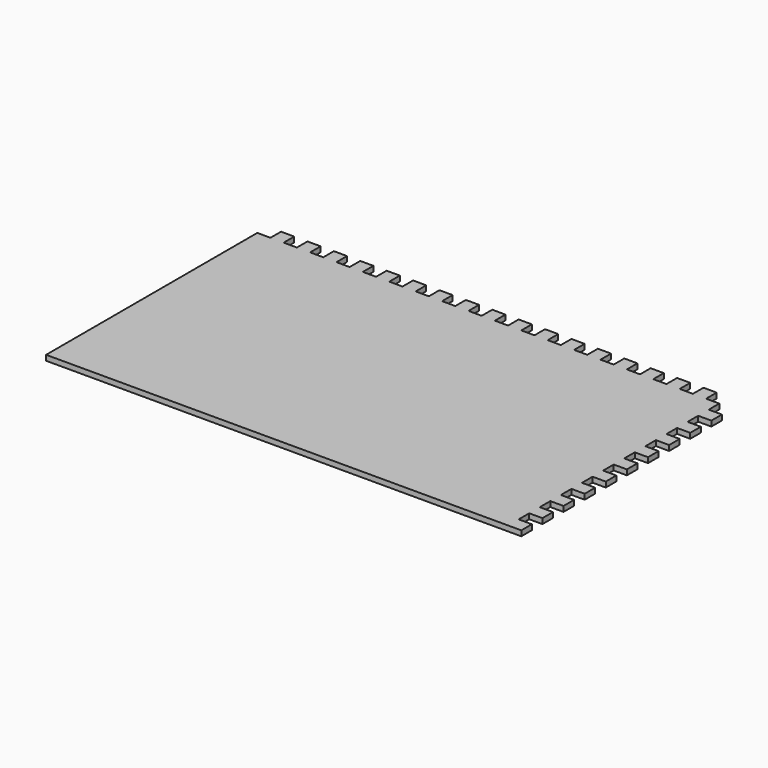
from build123d import *

# Parameters (mm, degrees)
F1_DEPTH = 2


with BuildPart() as f1:
    # F0 (on Top) → F1 (new body)
    with BuildSketch(Plane.XY):
        Polygon((-180, -3.5), (-180, -103.5), (-5, -103.5), (0, -103.5), (0, -98.5), (-5, -98.5), (-5, -93.5), (0, -93.5), (0, -88.5), (-5, -88.5), (-5, -83.5), (0, -83.5), (0, -78.5), (-5, -78.5), (-5, -73.5), (0, -73.5), (0, -68.5), (-5, -68.5), (-5, -63.5), (0, -63.5), (0, -58.5), (-5, -58.5), (-5, -53.5), (0, -53.5), (0, -48.5), (-5, -48.5), (-5, -43.5), (0, -43.5), (0, -38.5), (-5, -38.5), (-5, -33.5), (0, -33.5), (0, -28.5), (-5, -28.5), (-5, -23.5), (0, -23.5), (0, -18.5), (-5, -18.5), (-5, -13.5), (0, -13.5), (0, -8.5), (-5, -8.5), (-5, -3.5), (-10, -3.5), (-10, 1.5), (-15, 1.5), (-15, -3.5), (-20, -3.5), (-20, 1.5), (-25, 1.5), (-25, -3.5), (-30, -3.5), (-30, 1.5), (-35, 1.5), (-35, -3.5), (-40, -3.5), (-40, 1.5), (-45, 1.5), (-45, -3.5), (-50, -3.5), (-50, 1.5), (-55, 1.5), (-55, -3.5), (-60, -3.5), (-60, 1.5), (-65, 1.5), (-65, -3.5), (-70, -3.5), (-70, 1.5), (-75, 1.5), (-75, -3.5), (-80, -3.5), (-80, 1.5), (-85, 1.5), (-85, -3.5), (-90, -3.5), (-90, 1.5), (-95, 1.5), (-95, -3.5), (-100, -3.5), (-100, 1.5), (-105, 1.5), (-105, -3.5), (-110, -3.5), (-110, 1.5), (-115, 1.5), (-115, -3.5), (-120, -3.5), (-120, 1.5), (-125, 1.5), (-125, -3.5), (-130, -3.5), (-130, 1.5), (-135, 1.5), (-135, -3.5), (-140, -3.5), (-140, 1.5), (-145, 1.5), (-145, -3.5), (-150, -3.5), (-150, 1.5), (-155, 1.5), (-155, -3.5), (-160, -3.5), (-160, 1.5), (-165, 1.5), (-165, -3.5), (-170, -3.5), (-170, 1.5), (-175, 1.5), (-175, -3.5), align=None)
    extrude(amount=F1_DEPTH)


solid = f1.part
